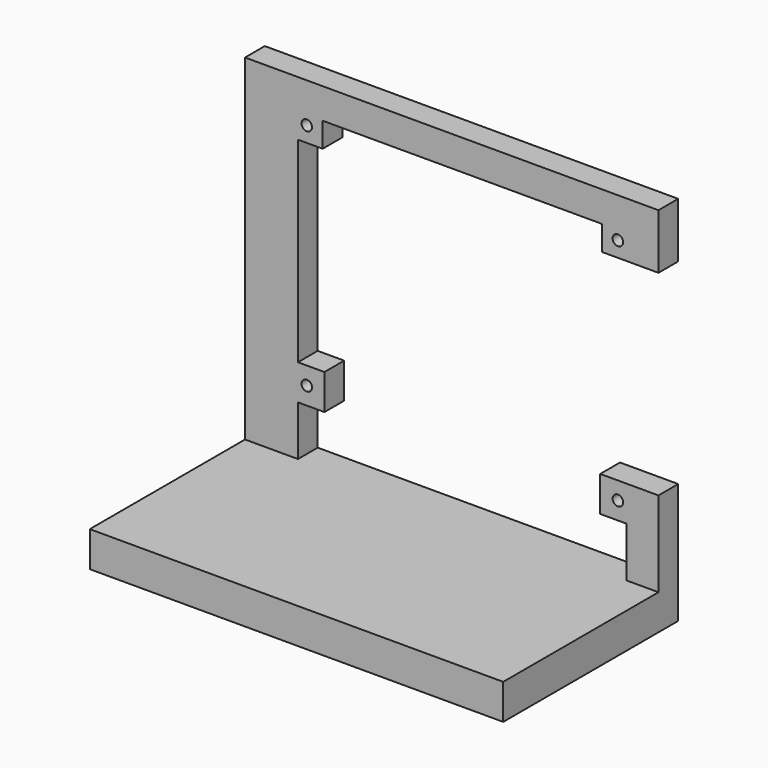
from build123d import *

# Parameters (mm, degrees)
F0_R     = 1.485
F1_DEPTH = 7
F3_DEPTH = 55


with BuildPart() as f1:
    # F0 (on Front) → F1 (new body)
    with BuildSketch(Plane.XZ):
        Polygon((-39.59, 60.535), (-39.59, 67.535), (39.59, 67.535), (39.59, 60.535), (46.59, 60.535), (55.59, 60.535), (55.59, 76.158497), (-61.59, 76.158497), (-61.59, -19.155), (-61.59, -29.155), (55.59, -29.155), (55.59, -19.155), (55.59, 5), (46.59, 5), (39.085, 5), (39.085, -5), (46.59, -5), (46.59, -19.155), (-46.59, -19.155), (-46.59, -5), (-39.085, -5), (-39.085, 5), (-46.59, 5), (-46.59, 60.535), align=None)
        with Locations((-44.085, 0)):
            Circle(F0_R, mode=Mode.SUBTRACT)
        with Locations((44.085, 0)):
            Circle(F0_R, mode=Mode.SUBTRACT)
        with Locations((-44.085, 64.92)):
            Circle(F0_R, mode=Mode.SUBTRACT)
        with Locations((44.085, 64.92)):
            Circle(F0_R, mode=Mode.SUBTRACT)
    extrude(amount=F1_DEPTH)

    # F2 (on face) → F3 (join)
    with BuildSketch(Plane.XZ.offset(7)):
        Polygon((-61.59, -19.155), (-61.59, -29.155), (55.59, -29.155), (55.59, -19.155), (46.59, -19.155), (-46.59, -19.155), align=None)
    extrude(amount=F3_DEPTH)


solid = f1.part
